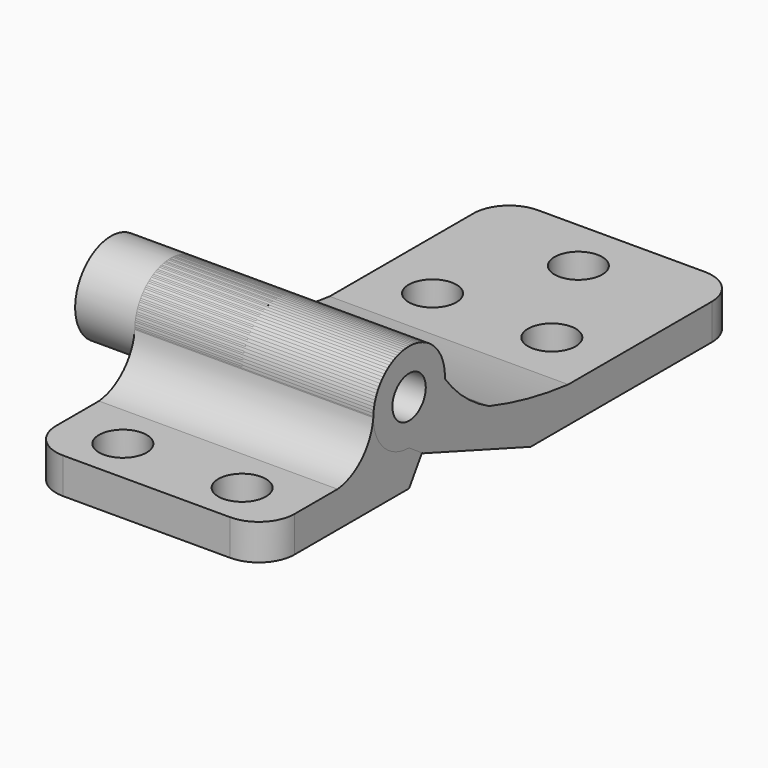
from build123d import *

# Parameters (mm, degrees)
F0_R      = 1.75
F1_DEPTH  = 20
F2_R      = 2
F3_DEPTH  = 3
F4_R      = 3
F5_R      = 1.75
F6_DEPTH  = 5
F7_DEPTH  = 20
F8_R      = 3
F9_R      = 2
F10_DEPTH = 3
F11_R     = 3.75
F11_R_2   = 1.75
F12_DEPTH = 9


with BuildPart() as f1:
    # F0 (on Right) → F1 (new body)
    with BuildSketch(Plane.YZ):
        with BuildLine():
            Line((0, 0), (2.6920669918, 4.1393917737))
            ThreePointArc((2.6920669918, 4.1393917737), (1.4084120101, 10.2254676822), (-3.75, 6.75))
            ThreePointArc((-3.75, 6.75), (-4.9520679105, 4.2020679105), (-7.5, 3))
            Line((-7.5, 3), (-15, 3))
            Line((-15, 3), (-15, 0))
            Line((-15, 0), (0, 0))
        make_face()
        with Locations((0, 6.75)):
            Circle(F0_R, mode=Mode.SUBTRACT)
    extrude(amount=F1_DEPTH)

    # F2 (on face) → F3 (cut, through all)
    with BuildSketch(Plane.XY.offset(3)):
        with Locations((5, -11.25)):
            Circle(F2_R)
        with Locations((15, -11.25)):
            Circle(F2_R)
    extrude(amount=-F3_DEPTH, mode=Mode.SUBTRACT)

    # F4
    f4_edges = [f1.edges().sort_by_distance(p)[0] for p in [
        (0, -15, 1.5),
        (20, -15, 1.5),
    ]]
    fillet(f4_edges, radius=F4_R)


with BuildPart() as f6:
    # F5 (on Right) → F6 (new body)
    with BuildSketch(Plane.YZ):
        with BuildLine():
            ThreePointArc((3.7461060092, 6.5791498681), (3.7490263759, 6.6645527491), (3.75, 6.75))
            ThreePointArc((3.75, 6.75), (-2.6516504294, 9.4016504294), (0, 3))
            ThreePointArc((0, 3), (2.5905416427, 4.0386176962), (3.7461060092, 6.5791498681))
        make_face()
        with Locations((0, 6.75)):
            Circle(F5_R, mode=Mode.SUBTRACT)
    extrude(amount=-F6_DEPTH)

    # F5 (on Right) → F7 (join)
    with BuildSketch(Plane.YZ):
        with BuildLine():
            ThreePointArc((3.7461060092, 6.5791498681), (2.5905416427, 4.0386176962), (0, 3))
            Line((0, 3), (1.4636747047, 2))
            Line((1.4636747047, 2), (12.7399861541, -2.1042417199))
            Line((12.7399861541, -2.1042417199), (34.7399861541, -2.1042417199))
            Line((34.7399861541, -2.1042417199), (34.7399861541, 0.8957582801))
            Line((34.7399861541, 0.8957582801), (16.6797647775, 0.8957582801))
            ThreePointArc((16.6797647775, 0.8957582801), (12.4900492437, 1.5628328948), (8.3945510088, 2.6699006453))
            ThreePointArc((8.3945510088, 2.6699006453), (5.8388205012, 4.349241646), (3.7461060092, 6.5791498681))
        make_face()
        with BuildLine():
            ThreePointArc((3.7461060092, 6.5791498681), (3.7490263759, 6.6645527491), (3.75, 6.75))
            ThreePointArc((3.75, 6.75), (-2.6516504294, 9.4016504294), (0, 3))
            ThreePointArc((0, 3), (2.5905416427, 4.0386176962), (3.7461060092, 6.5791498681))
        make_face()
        with Locations((0, 6.75)):
            Circle(F5_R, mode=Mode.SUBTRACT)
    extrude(amount=F7_DEPTH)

    # F8
    f8_edges = [f6.edges().sort_by_distance(p)[0] for p in [
        (20, 34.739986, -0.604242),
        (0, 34.739986, -0.604242),
    ]]
    fillet(f8_edges, radius=F8_R)

    # F9 (on face) → F10 (cut, through all)
    with BuildSketch(Plane.XY.offset(0.8957582801)):
        with Locations((10, 30.2399861541)):
            Circle(F9_R)
        with Locations((5, 21.2098754658)):
            Circle(F9_R)
        with Locations((15, 21.2098754658)):
            Circle(F9_R)
    extrude(amount=-F10_DEPTH, mode=Mode.SUBTRACT)


with BuildPart() as f12:
    # F11 (on Right) → F12 (new body)
    with BuildSketch(Plane.YZ):
        with Locations((0, 6.75)):
            Circle(F11_R)
        with Locations((0, 6.75)):
            Circle(F11_R_2, mode=Mode.SUBTRACT)
    extrude(amount=F12_DEPTH)


solid = Compound([f1.part, f6.part, f12.part])
